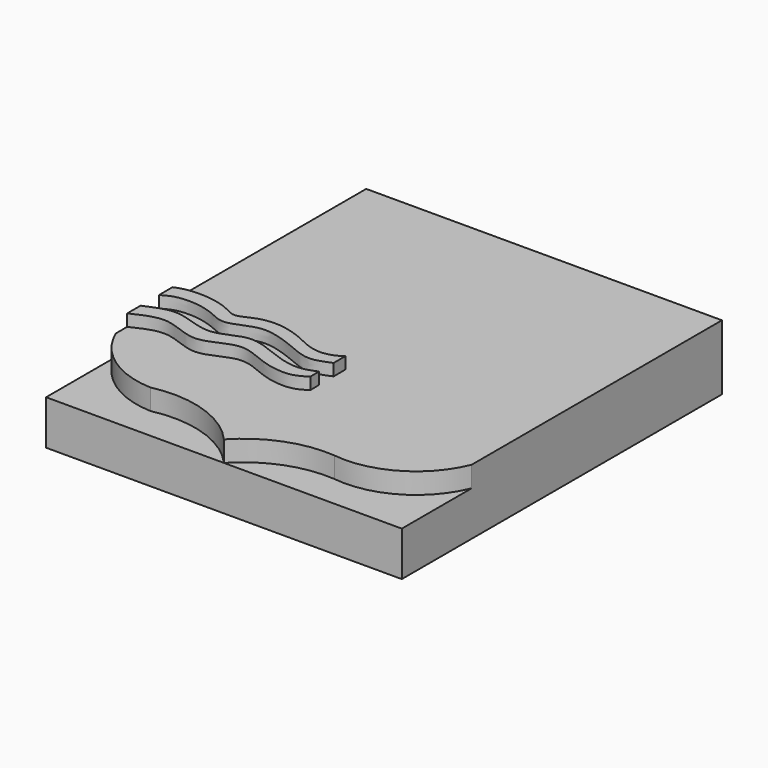
from build123d import *

# Parameters (mm, degrees)
F0_W     = 60
F0_H     = 67.5
F1_DEPTH = 15
F5_DEPTH = 7
F7_DEPTH = 4


with BuildPart() as f1:
    # F0 (on Top) → F1 (new body)
    with BuildSketch(Plane.XY):
        with Locations((-30, 33.75)):
            Rectangle(F0_W, F0_H)
        Polygon((60, 67.5), (0, 67.5), (0, 0), (5.9781013988, 0), (60, 0), align=None)
        with Locations((-30, -33.75)):
            Rectangle(F0_W, F0_H)
        Polygon((5.9781013988, 0), (0, 0), (0, -67.5), (60, -67.5), (60, 0), align=None)
    extrude(amount=F1_DEPTH)

    # F4 (on face) → F5 (join)
    with BuildSketch(Plane.XY.offset(15)):
        with BuildLine():
            Line((-60, 0), (-60, -38.0529202521))
            ThreePointArc((-60, -38.0529202521), (-49.5105953574, -51.0904314292), (-33.6693982898, -56.4812368343))
            ThreePointArc((-33.6693982898, -56.4812368343), (-15.3376274344, -57.4161028449), (0, -67.5))
            ThreePointArc((0, -67.5), (12.9433258402, -58.7363497884), (28.410895604, -56.4812368343))
            ThreePointArc((28.410895604, -56.4812368343), (47.3381804243, -52.6370871063), (60, -38.0529202521))
            Line((60, -38.0529202521), (60, 67.5))
            Line((60, 67.5), (-60, 67.5))
            Line((-60, 67.5), (-60, 0))
        make_face()
    extrude(amount=F5_DEPTH)

    # F6 (on face) → F7 (join)
    with BuildSketch(Plane.XY.offset(22)):
        with BuildLine():
            add(Edge.make_bspline(
                [(-60, -14.1512239352), (-59.0293889919, -13.7585961079), (-56.6236997139, -12.7854559454), (-49.0504631043, -12.3499323054), (-41.4676376213, -14.4143905876), (-37.310563853, -17.3961414407), (-31.6113048526, -13.7340453951), (-24.3327976689, -12.9655279158), (-16.730226682, -15.1518072312), (-11.848805959, -17.9023620476), (-6.6941574417, -19.2385563279), (-2.0295442031, -18.0148753376), (-0.0189397587, -16.5628165681), (0.1118455984, -16.2781241236)],
                knots=[0, 0, 0, 0, 0.0705560873, 0.1748754354, 0.2822587754, 0.3622366871, 0.454972104, 0.5582662803, 0.6642203819, 0.7542834332, 0.8403652981, 0.925033899, 0.9832160145, 0.9832160145, 0.9832160145, 0.9832160145], degree=3))
            Line((-60, -14.1512239352), (-60, -19.8548957705))
            add(Edge.make_bspline(
                [(-60, -19.8548957705), (-58.7257888093, -19.1436585072), (-55.8955547979, -17.5638827938), (-48.9702862444, -17.3858195386), (-42.4680056618, -19.1850661251), (-37.463020039, -22.1911615113), (-30.3087693341, -18.677386885), (-24.871896529, -17.4062862995), (-16.9093310744, -19.8677835147), (-12.7943307223, -21.7909091619), (-6.3861561614, -24.228006265), (-2.0676772483, -22.3592450119), (0.1470434485, -21.4008556559)],
                knots=[0, 0, 0, 0, 0.0855559678, 0.190033969, 0.2947188809, 0.3878397063, 0.4961411128, 0.5926967688, 0.7053736836, 0.7934295061, 0.8940608586, 1, 1, 1, 1], degree=3))
            Line((0.1470434485, -21.4008556559), (0.1118455984, -16.2781241236))
        make_face()
        with BuildLine():
            add(Edge.make_bspline(
                [(-60, -27.6262178335), (-58.6908579139, -27.0610454374), (-55.7423438806, -25.7881364393), (-48.6094061642, -23.7011458379), (-36.3948711424, -30.1574496981), (-26.1879734271, -21.9651117607), (-14.2133970996, -28.0543249168), (-5.5258287766, -29.9499942904), (-1.5805656805, -28.3459920046), (0.1898173795, -27.6262178335)],
                knots=[0, 0, 0, 0, 0.1030829205, 0.2321684107, 0.4040915702, 0.5670970962, 0.7386692977, 0.882731408, 1, 1, 1, 1], degree=3))
            Line((-60, -27.6262178335), (-60, -33.2923606038))
            add(Edge.make_bspline(
                [(-60, -33.2923606038), (-56.3803265128, -31.5433703048), (-48.9851936137, -27.9701154943), (-36.844872956, -36.1289431011), (-25.2372817337, -26.9445755845), (-14.8016717458, -33.2381042089), (-4.5983556928, -34.4314814953), (-1.2173570397, -32.2734966719), (0.2154648118, -31.358971667)],
                knots=[0, 0, 0, 0, 0.1761592769, 0.3599002143, 0.5422376138, 0.7167772716, 0.879974009, 1, 1, 1, 1], degree=3))
            Line((0.2154648118, -31.358971667), (0.1898173795, -27.6262178335))
        make_face()
    extrude(amount=F7_DEPTH)


solid = f1.part
